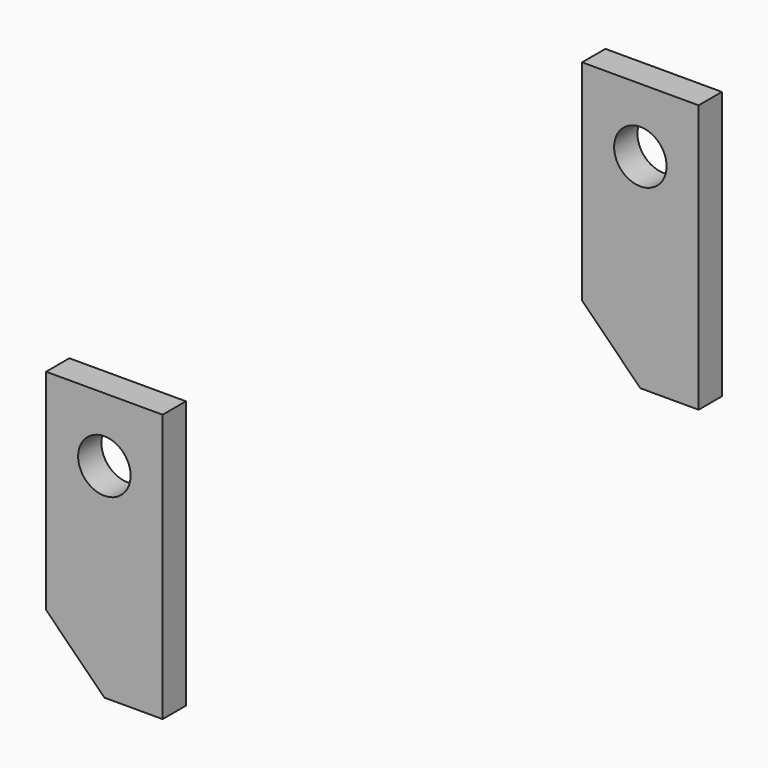
from build123d import *

# Parameters (mm, degrees)
F0_R     = 9
F1_DEPTH = 10


with BuildPart() as f1:
    # F0 (on Front) → F1 (new body)
    with BuildSketch(Plane.XZ):
        Polygon((20, 22), (-20, 22), (-20, -50), (0, -70), (20, -70), align=None)
        Circle(F0_R, mode=Mode.SUBTRACT)
    extrude(amount=-F1_DEPTH)


with BuildPart() as f1_1:
    # F2: moved
    add(f1.part.moved(Location((0, 10, 0))))


with BuildPart() as f3_1:
    # F3: instance of F1
    add(f1_1.part.mirror(Plane.XZ))


with BuildPart() as f3_1_1:
    # F4: moved
    add(f3_1.part.moved(Location((0, -200, 0))))


solid = Compound([f1_1.part, f3_1_1.part])
